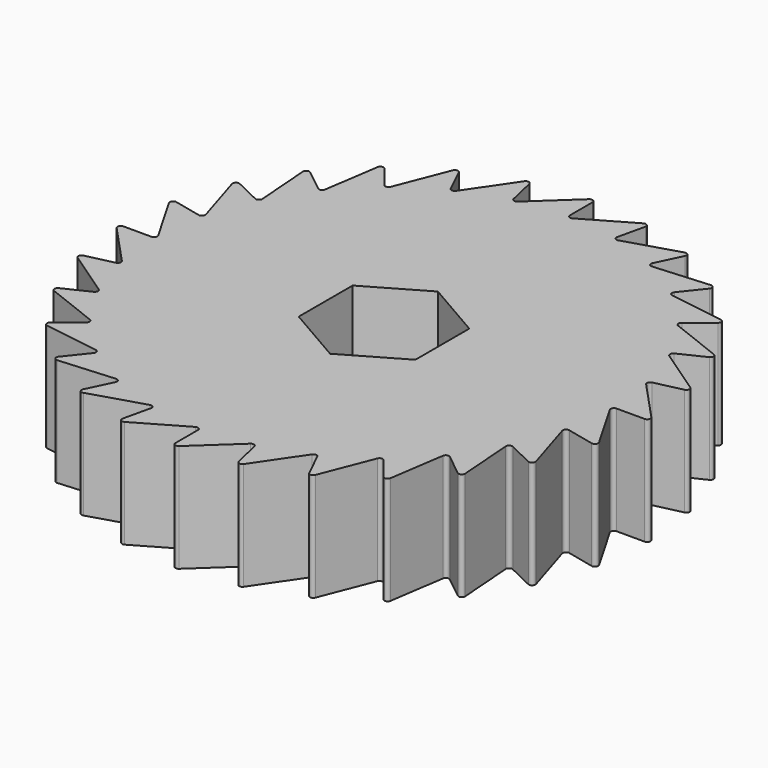
from build123d import *

# Parameters (mm, degrees)
F1_DEPTH = 12.7
F2_DEPTH = 25
F3_COUNT = 28
F5_R     = 0.381


with BuildPart() as f1:
    # F0 (on Top) → F1 (new body)
    with BuildSketch(Plane.XY):
        with BuildLine():
            ThreePointArc((0, 31.75), (-22.4506403027, -22.4506403027), (31.75, 0))
            ThreePointArc((31.75, 0), (24.9039389343, 19.6940682835), (7.3181054768, 30.895110167))
            Line((7.3181054768, 30.895110167), (0, 26.67))
            Line((0, 26.67), (0, 31.75))
        make_face()
        Polygon((0, 7.9189362922), (6.858, 3.9594681461), (6.858, -3.9594681461), (0, -7.9189362922), (-6.858, -3.9594681461), (-6.858, 3.9594681461), align=None, mode=Mode.SUBTRACT)
        with BuildLine():
            Line((0, 26.67), (7.3181054768, 30.895110167))
            ThreePointArc((7.3181054768, 30.895110167), (3.6839348663, 31.5355533311), (0, 31.75))
            Line((0, 31.75), (0, 26.67))
        make_face()
    extrude(amount=F1_DEPTH)


with BuildPart() as f2:
    # F0 (on Top) → F2 (new body)
    with BuildSketch(Plane.XY):
        with BuildLine():
            Line((0, 26.67), (7.3181054768, 30.895110167))
            ThreePointArc((7.3181054768, 30.895110167), (3.6839348663, 31.5355533311), (0, 31.75))
            Line((0, 31.75), (0, 26.67))
        make_face()
    extrude(amount=F2_DEPTH)


with BuildPart() as f3_1:
    # F3: instance of F2
    add(f2.part.rotate(Axis((0, 0, 0), (0, 0, -1)), 1 * 360 / F3_COUNT))


with BuildPart() as f3_2:
    # F3: instance of F2
    add(f2.part.rotate(Axis((0, 0, 0), (0, 0, -1)), 2 * 360 / F3_COUNT))


with BuildPart() as f3_3:
    # F3: instance of F2
    add(f2.part.rotate(Axis((0, 0, 0), (0, 0, -1)), 3 * 360 / F3_COUNT))


with BuildPart() as f3_4:
    # F3: instance of F2
    add(f2.part.rotate(Axis((0, 0, 0), (0, 0, -1)), 4 * 360 / F3_COUNT))


with BuildPart() as f3_5:
    # F3: instance of F2
    add(f2.part.rotate(Axis((0, 0, 0), (0, 0, -1)), 5 * 360 / F3_COUNT))


with BuildPart() as f3_6:
    # F3: instance of F2
    add(f2.part.rotate(Axis((0, 0, 0), (0, 0, -1)), 6 * 360 / F3_COUNT))


with BuildPart() as f3_7:
    # F3: instance of F2
    add(f2.part.rotate(Axis((0, 0, 0), (0, 0, -1)), 7 * 360 / F3_COUNT))


with BuildPart() as f3_8:
    # F3: instance of F2
    add(f2.part.rotate(Axis((0, 0, 0), (0, 0, -1)), 8 * 360 / F3_COUNT))


with BuildPart() as f3_9:
    # F3: instance of F2
    add(f2.part.rotate(Axis((0, 0, 0), (0, 0, -1)), 9 * 360 / F3_COUNT))


with BuildPart() as f3_10:
    # F3: instance of F2
    add(f2.part.rotate(Axis((0, 0, 0), (0, 0, -1)), 10 * 360 / F3_COUNT))


with BuildPart() as f3_11:
    # F3: instance of F2
    add(f2.part.rotate(Axis((0, 0, 0), (0, 0, -1)), 11 * 360 / F3_COUNT))


with BuildPart() as f3_12:
    # F3: instance of F2
    add(f2.part.rotate(Axis((0, 0, 0), (0, 0, -1)), 12 * 360 / F3_COUNT))


with BuildPart() as f3_13:
    # F3: instance of F2
    add(f2.part.rotate(Axis((0, 0, 0), (0, 0, -1)), 13 * 360 / F3_COUNT))


with BuildPart() as f3_14:
    # F3: instance of F2
    add(f2.part.rotate(Axis((0, 0, 0), (0, 0, -1)), 14 * 360 / F3_COUNT))


with BuildPart() as f3_15:
    # F3: instance of F2
    add(f2.part.rotate(Axis((0, 0, 0), (0, 0, -1)), 15 * 360 / F3_COUNT))


with BuildPart() as f3_16:
    # F3: instance of F2
    add(f2.part.rotate(Axis((0, 0, 0), (0, 0, -1)), 16 * 360 / F3_COUNT))


with BuildPart() as f3_17:
    # F3: instance of F2
    add(f2.part.rotate(Axis((0, 0, 0), (0, 0, -1)), 17 * 360 / F3_COUNT))


with BuildPart() as f3_18:
    # F3: instance of F2
    add(f2.part.rotate(Axis((0, 0, 0), (0, 0, -1)), 18 * 360 / F3_COUNT))


with BuildPart() as f3_19:
    # F3: instance of F2
    add(f2.part.rotate(Axis((0, 0, 0), (0, 0, -1)), 19 * 360 / F3_COUNT))


with BuildPart() as f3_20:
    # F3: instance of F2
    add(f2.part.rotate(Axis((0, 0, 0), (0, 0, -1)), 20 * 360 / F3_COUNT))


with BuildPart() as f3_21:
    # F3: instance of F2
    add(f2.part.rotate(Axis((0, 0, 0), (0, 0, -1)), 21 * 360 / F3_COUNT))


with BuildPart() as f3_22:
    # F3: instance of F2
    add(f2.part.rotate(Axis((0, 0, 0), (0, 0, -1)), 22 * 360 / F3_COUNT))


with BuildPart() as f3_23:
    # F3: instance of F2
    add(f2.part.rotate(Axis((0, 0, 0), (0, 0, -1)), 23 * 360 / F3_COUNT))


with BuildPart() as f3_24:
    # F3: instance of F2
    add(f2.part.rotate(Axis((0, 0, 0), (0, 0, -1)), 24 * 360 / F3_COUNT))


with BuildPart() as f3_25:
    # F3: instance of F2
    add(f2.part.rotate(Axis((0, 0, 0), (0, 0, -1)), 25 * 360 / F3_COUNT))


with BuildPart() as f3_26:
    # F3: instance of F2
    add(f2.part.rotate(Axis((0, 0, 0), (0, 0, -1)), 26 * 360 / F3_COUNT))


with BuildPart() as f3_27:
    # F3: instance of F2
    add(f2.part.rotate(Axis((0, 0, 0), (0, 0, -1)), 27 * 360 / F3_COUNT))


with BuildPart() as f1_1:
    add(f1.part)

    # F4: cut F2, F3_1, F3_2, F3_3, F3_4, F3_5, F3_6, F3_7, F3_8, F3_9, F3_10, F3_11, F3_12, F3_13, F3_14, F3_15, F3_16, F3_17, F3_18, F3_19, F3_20, F3_21, F3_23, F3_22, F3_24, F3_25, F3_26, F3_27
    add(f2.part, mode=Mode.SUBTRACT)
    add(f3_1.part, mode=Mode.SUBTRACT)
    add(f3_2.part, mode=Mode.SUBTRACT)
    add(f3_3.part, mode=Mode.SUBTRACT)
    add(f3_4.part, mode=Mode.SUBTRACT)
    add(f3_5.part, mode=Mode.SUBTRACT)
    add(f3_6.part, mode=Mode.SUBTRACT)
    add(f3_7.part, mode=Mode.SUBTRACT)
    add(f3_8.part, mode=Mode.SUBTRACT)
    add(f3_9.part, mode=Mode.SUBTRACT)
    add(f3_10.part, mode=Mode.SUBTRACT)
    add(f3_11.part, mode=Mode.SUBTRACT)
    add(f3_12.part, mode=Mode.SUBTRACT)
    add(f3_13.part, mode=Mode.SUBTRACT)
    add(f3_14.part, mode=Mode.SUBTRACT)
    add(f3_15.part, mode=Mode.SUBTRACT)
    add(f3_16.part, mode=Mode.SUBTRACT)
    add(f3_17.part, mode=Mode.SUBTRACT)
    add(f3_18.part, mode=Mode.SUBTRACT)
    add(f3_19.part, mode=Mode.SUBTRACT)
    add(f3_20.part, mode=Mode.SUBTRACT)
    add(f3_21.part, mode=Mode.SUBTRACT)
    add(f3_23.part, mode=Mode.SUBTRACT)
    add(f3_22.part, mode=Mode.SUBTRACT)
    add(f3_24.part, mode=Mode.SUBTRACT)
    add(f3_25.part, mode=Mode.SUBTRACT)
    add(f3_26.part, mode=Mode.SUBTRACT)
    add(f3_27.part, mode=Mode.SUBTRACT)

    # F5
    f5_edges = [f1_1.edges().sort_by_distance(p)[0] for p in [
        (-31.507862, 0, 6.35),
        (-30.717895, 7.011159, 6.35),
        (-28.387603, 13.670749, 6.35),
        (-24.633839, 19.644831, 6.35),
        (-19.644831, 24.633839, 6.35),
        (-13.670749, 28.387603, 6.35),
        (-7.011159, 30.717895, 6.35),
        (0, 31.507862, 6.35),
        (7.011159, 30.717895, 6.35),
        (13.670749, 28.387603, 6.35),
        (19.644831, 24.633839, 6.35),
        (24.633839, 19.644831, 6.35),
        (28.387603, 13.670749, 6.35),
        (30.717895, 7.011159, 6.35),
        (31.507862, 0, 6.35),
        (30.717895, -7.011159, 6.35),
        (28.387603, -13.670749, 6.35),
        (24.633839, -19.644831, 6.35),
        (19.644831, -24.633839, 6.35),
        (13.670749, -28.387603, 6.35),
        (7.011159, -30.717895, 6.35),
        (0, -31.507862, 6.35),
        (-7.011159, -30.717895, 6.35),
        (-13.670749, -28.387603, 6.35),
        (-19.644831, -24.633839, 6.35),
        (-24.633839, -19.644831, 6.35),
        (-28.387603, -13.670749, 6.35),
        (-30.717895, -7.011159, 6.35),
        (26.001327, 5.934633, 6.35),
        (26.67, 0, 6.35),
        (26.001327, -5.934633, 6.35),
        (24.02884, -11.571679, 6.35),
        (20.851446, -16.628473, 6.35),
        (16.628473, -20.851446, 6.35),
        (11.571679, -24.02884, 6.35),
        (5.934633, -26.001327, 6.35),
        (0, -26.67, 6.35),
        (-5.934633, -26.001327, 6.35),
        (-11.571679, -24.02884, 6.35),
        (-16.628473, -20.851446, 6.35),
        (-20.851446, -16.628473, 6.35),
        (-24.02884, -11.571679, 6.35),
        (-26.001327, -5.934633, 6.35),
        (-26.67, 0, 6.35),
        (-26.001327, 5.934633, 6.35),
        (-24.02884, 11.571679, 6.35),
        (-20.851446, 16.628473, 6.35),
        (-16.628473, 20.851446, 6.35),
        (-11.571679, 24.02884, 6.35),
        (-5.934633, 26.001327, 6.35),
        (0, 26.67, 6.35),
        (5.934633, 26.001327, 6.35),
        (11.571679, 24.02884, 6.35),
        (16.628473, 20.851446, 6.35),
        (20.851446, 16.628473, 6.35),
        (24.02884, 11.571679, 6.35),
    ]]
    fillet(f5_edges, radius=F5_R)


solid = f1_1.part
